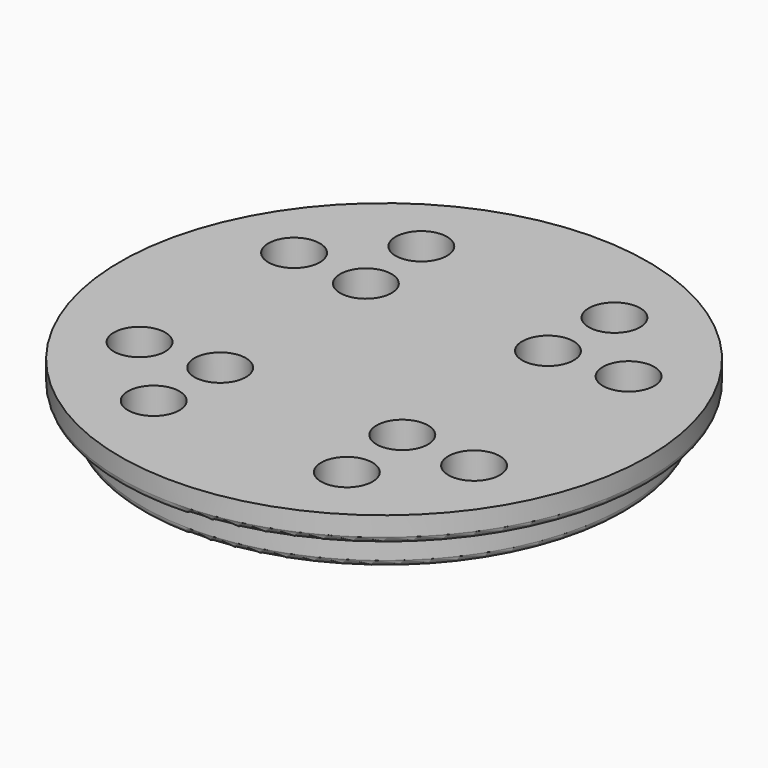
from build123d import *

# Parameters (mm, degrees)
F0_R     = 18.75
F1_DEPTH = 2.5
F3_R     = 0.5
F4_R     = 20.5
F5_DEPTH = 2
F6_D     = 4
F7_D     = 4
F8_R     = 0.5


with BuildPart() as f1:
    # F0 (on Top) → F1 (new body)
    with BuildSketch(Plane.XY):
        Circle(F0_R)
    extrude(amount=F1_DEPTH)

    # F3
    f3_edges = [f1.edges().sort_by_distance(p)[0] for p in [
        (-18.75, 0, 0),
    ]]
    fillet(f3_edges, radius=F3_R)

    # F4 (on face) → F5 (join)
    with BuildSketch(Plane.XY.offset(2.5)):
        Circle(F4_R)
    extrude(amount=F5_DEPTH)

    # F6 (through all)
    with Locations(Plane(origin=(0, 0, 2.5), x_dir=(1, 0, 0), z_dir=(0, 0, -1))):
        with Locations((-7.5, -12.990381), (-12.990381, -7.5), (-7.071068, -7.071068), (-12.990381, 7.5), (-7.071068, 7.071068), (-7.5, 12.990381), (7.5, 12.990381), (7.071068, 7.071068), (12.990381, 7.5), (7.071068, -7.071068), (7.5, -12.990381), (12.990381, -7.5)):
            Hole(F6_D / 2)

    # F7 (through all)
    with Locations(Plane.XY.offset(2.5)):
        with Locations((-12.990381, 7.5), (-7.5, 12.990381), (-7.071068, 7.071068), (-12.990381, -7.5), (-7.071068, -7.071068), (-7.5, -12.990381), (7.5, -12.990381), (7.071068, -7.071068), (12.990381, -7.5), (7.071068, 7.071068), (12.990381, 7.5), (7.5, 12.990381)):
            Hole(F7_D / 2)

    # F8
    f8_edges = [f1.edges().sort_by_distance(p)[0] for p in [
        (-20.5, 0, 2.5),
    ]]
    fillet(f8_edges, radius=F8_R)


solid = f1.part
